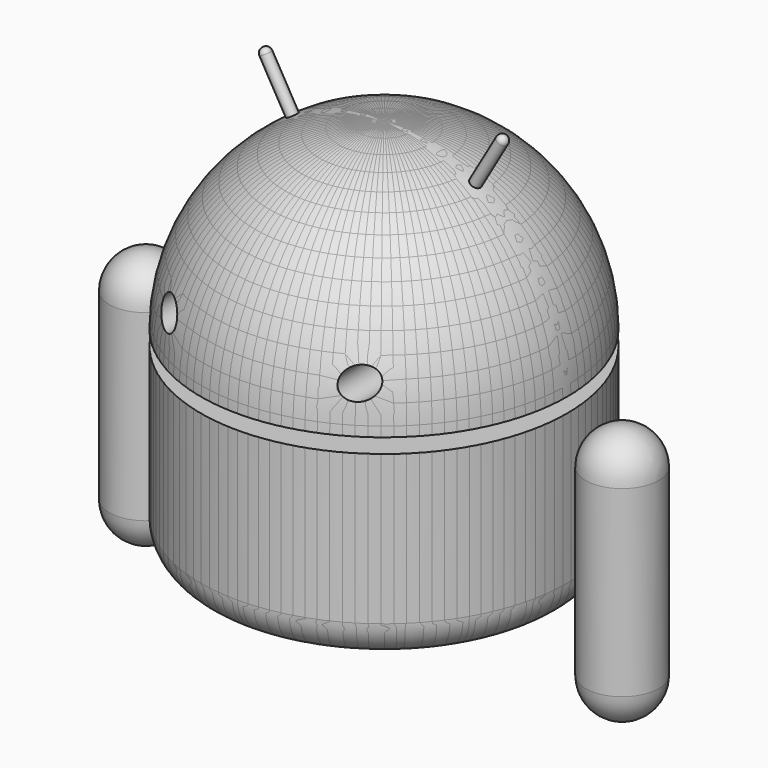
from build123d import *

# Parameters (mm, degrees)
F7_R     = 4
F8_DEPTH = 60


with BuildPart() as f1:
    # F0 (on Front) → F1 (revolve)
    with BuildSketch(Plane.XZ):
        with BuildLine():
            Line((0, 54), (0, 4))
            Line((0, 4), (50, 4))
            ThreePointArc((50, 4), (35.3553390593, 39.3553390593), (0, 54))
        make_face()
    revolve(axis=Axis((0, 0, -24.6936754167), (0, 0, -1)))

    # F4 (on Front) → F5 (revolve)
    with BuildSketch(Plane.XZ):
        with BuildLine():
            Line((33, 61.1175927162), (23, 43.7970846405))
            Line((23, 43.7970846405), (24.2990381057, 43.0470846405))
            Line((24.2990381057, 43.0470846405), (33.5490381057, 59.0685546105))
            ThreePointArc((33.5490381057, 59.0685546105), (33.6988887394, 60.2067831781), (33, 61.1175927162))
        make_face()
    revolve(axis=Axis((8.1424876619, 0, 18.0631183967), (0.5, 0, 0.8660254038)))


with BuildPart() as f1b:
    # F0 (on Front) → F1, piece 2 (revolve)
    with BuildSketch(Plane.XZ):
        with BuildLine():
            Line((50, 0), (0, 0))
            Line((0, 0), (0, -50.8))
            Line((0, -50.8), (40, -50.8))
            ThreePointArc((40, -50.8), (47.0710678119, -47.8710678119), (50, -40.8))
            Line((50, -40.8), (50, 0))
        make_face()
    revolve(axis=Axis((0, 0, -24.6936754167), (0, 0, -1)))


with BuildPart() as f3:
    # F2 (on Front) → F3 (revolve)
    with BuildSketch(Plane.XZ):
        with BuildLine():
            Line((65, 2), (65, -68))
            ThreePointArc((65, -68), (72.0710678119, -65.0710678119), (75, -58))
            Line((75, -58), (75, -8))
            ThreePointArc((75, -8), (72.0710678119, -0.9289321881), (65, 2))
        make_face()
    revolve(axis=Axis((65, 0, -36.7332571186), (0, 0, -1)))


with BuildPart() as f6_1:
    # F6: instance of F3
    add(f3.part.mirror(Plane.YZ))


with BuildPart() as f6_2:
    # F6: instance of F1b
    add(f1b.part.mirror(Plane.YZ))


with BuildPart() as f6_3:
    # F6: instance of F1
    add(f1.part.mirror(Plane.YZ))


with BuildPart() as f8_tool:
    # F7 (on Front) → F8 (new body)
    with BuildSketch(Plane.XZ):
        with Locations((26, 16)):
            Circle(F7_R)
        with Locations((-26, 16)):
            Circle(F7_R)
    extrude(amount=F8_DEPTH)


with BuildPart() as f1_1:
    add(f1.part)

    # F8: cut by f8_tool
    add(f8_tool.part, mode=Mode.SUBTRACT)


with BuildPart() as f6_3_1:
    add(f6_3.part)

    # F8: cut by f8_tool
    add(f8_tool.part, mode=Mode.SUBTRACT)


solid = Compound([f1b.part, f3.part, f6_1.part, f6_2.part, f1_1.part, f6_3_1.part])
